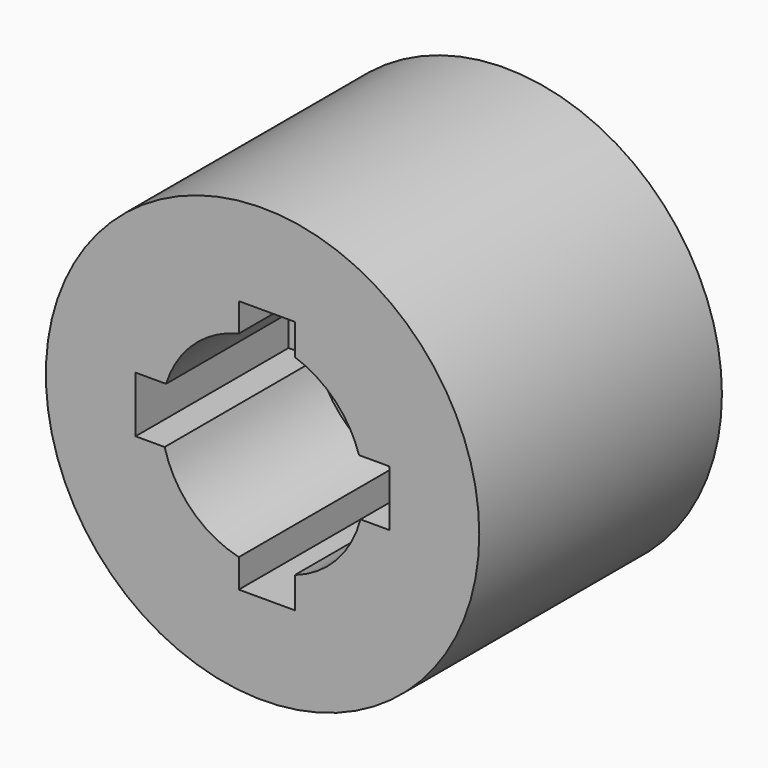
from build123d import *

# Parameters (mm, degrees)
F0_R     = 3.8651
F1_DEPTH = 5.41
F2_R     = 2.977189
F2_R_2   = 1.369861
F3_DEPTH = 2
F4_DEPTH = 1


with BuildPart() as f1:
    # F0 (on Front) → F1 (new body)
    with BuildSketch(Plane.XZ):
        with Locations((30.719768, 18.937557)):
            Circle(F0_R)
        with BuildLine():
            ThreePointArc((28.998524, 19.481013), (29.488314, 20.257233), (30.296515, 20.692231))
            Line((30.296515, 20.692231), (30.296515, 21.202457))
            Line((30.296515, 21.202457), (31.296515, 21.202457))
            Line((31.296515, 21.202457), (31.296515, 20.647933))
            ThreePointArc((31.296515, 20.647933), (32.008417, 20.201443), (32.441011, 19.481013))
            Line((32.441011, 19.481013), (32.984868, 19.481013))
            Line((32.984868, 19.481013), (32.984868, 18.481013))
            Line((32.984868, 18.481013), (32.466076, 18.481013))
            ThreePointArc((32.466076, 18.481013), (32.039681, 17.706356), (31.296515, 17.22718))
            Line((31.296515, 17.22718), (31.296515, 16.672457))
            Line((31.296515, 16.672457), (30.296515, 16.672457))
            Line((30.296515, 16.672457), (30.296515, 17.182882))
            ThreePointArc((30.296515, 17.182882), (29.455634, 17.64915), (28.973459, 18.481013))
            Line((28.973459, 18.481013), (28.454868, 18.481013))
            Line((28.454868, 18.481013), (28.454868, 19.481013))
            Line((28.454868, 19.481013), (28.998524, 19.481013))
        make_face(mode=Mode.SUBTRACT)
    extrude(amount=F1_DEPTH)

    # F2 (on Front) → F3 (join)
    with BuildSketch(Plane.XZ):
        with Locations((30.680057, 18.935421)):
            Circle(F2_R)
        with Locations((30.680057, 18.935421)):
            Circle(F2_R_2, mode=Mode.SUBTRACT)
    extrude(amount=F3_DEPTH)

    # F2 (on Front) → F4 (cut)
    with BuildSketch(Plane.XZ):
        with Locations((30.680057, 18.935421)):
            Circle(F2_R)
        with Locations((30.680057, 18.935421)):
            Circle(F2_R_2, mode=Mode.SUBTRACT)
    extrude(amount=F4_DEPTH, mode=Mode.SUBTRACT)


solid = f1.part
